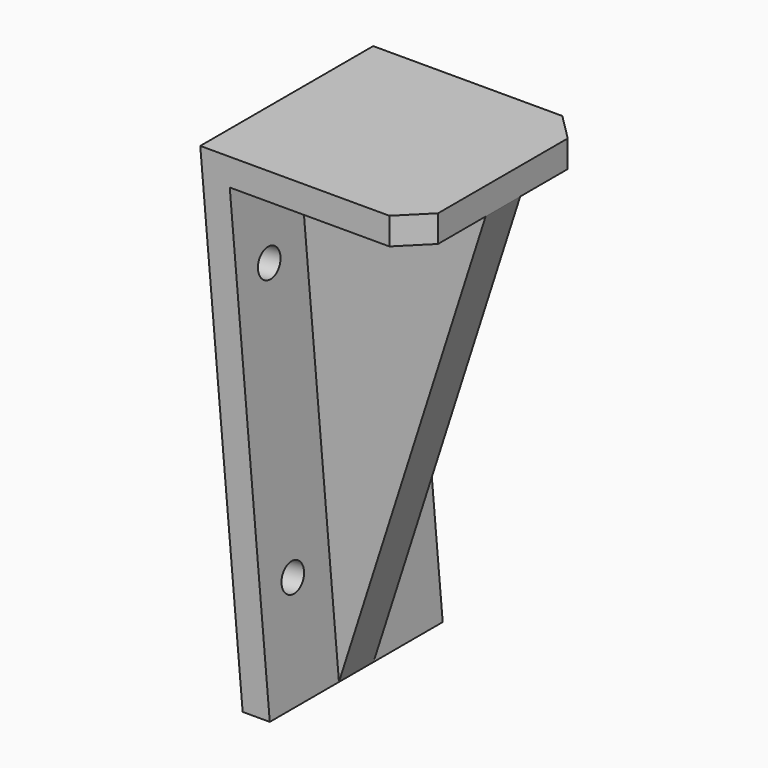
from build123d import *

# Parameters (mm, degrees)
F1_DEPTH = 20
F2_W     = 8
F2_H     = 84.6575228283
F5_DEPTH = 40.001
F6_R     = 2.6
F7_DEPTH = 12.815167995
F8_SIZE  = 5


with BuildPart() as f1:
    # F0 (on Front) → F1 (new body, symmetric)
    with BuildSketch(Plane.XZ):
        Polygon((-7.8440168473, 89.6575228283), (0, 0), (5.0190991877, 0), (-2.3874743419, 84.6575228283), (32.1559831527, 84.6575228283), (32.1559831527, 89.6575228283), align=None)
    extrude(amount=F1_DEPTH, both=True)

    # F2 (on face) → F3 (join, up to the next surface of F1)
    with BuildSketch(Plane.YZ.offset(32.1559831527)):
        with Locations((0, 42.3287614141)):
            Rectangle(F2_W, F2_H)
    extrude(until=Until.NEXT, dir=(-1, 0, 0))

    # F4 (on face) → F5 (cut, through all)
    with BuildSketch(Plane.XZ.offset(20)):
        Polygon((32.1559831527, 84.6575228283), (5.0190991877, 0), (32.1559831527, 0), align=None)
    extrude(amount=-F5_DEPTH, mode=Mode.SUBTRACT)

    # F6 (on face) → F7 (cut, through all)
    with BuildSketch(Plane(origin=(4.9809734905, 0, 0.4357787137), x_dir=(0, 1, 0), z_dir=(0.9961946981, 0, 0.0871557427))):
        with Locations((12.5, 69.5625566824)):
            Circle(F6_R)
        with Locations((12.5, 19.5625566824)):
            Circle(F6_R)
        with Locations((-12.5, 69.5625566824)):
            Circle(F6_R)
        with Locations((-12.5, 19.5625566824)):
            Circle(F6_R)
    extrude(amount=-F7_DEPTH, mode=Mode.SUBTRACT)

    # F8
    f8_edges = [f1.edges().sort_by_distance(p)[0] for p in [
        (32.155983, -20, 87.157523),
        (32.155983, 20, 87.157523),
    ]]
    chamfer(f8_edges, length=F8_SIZE)


solid = f1.part
